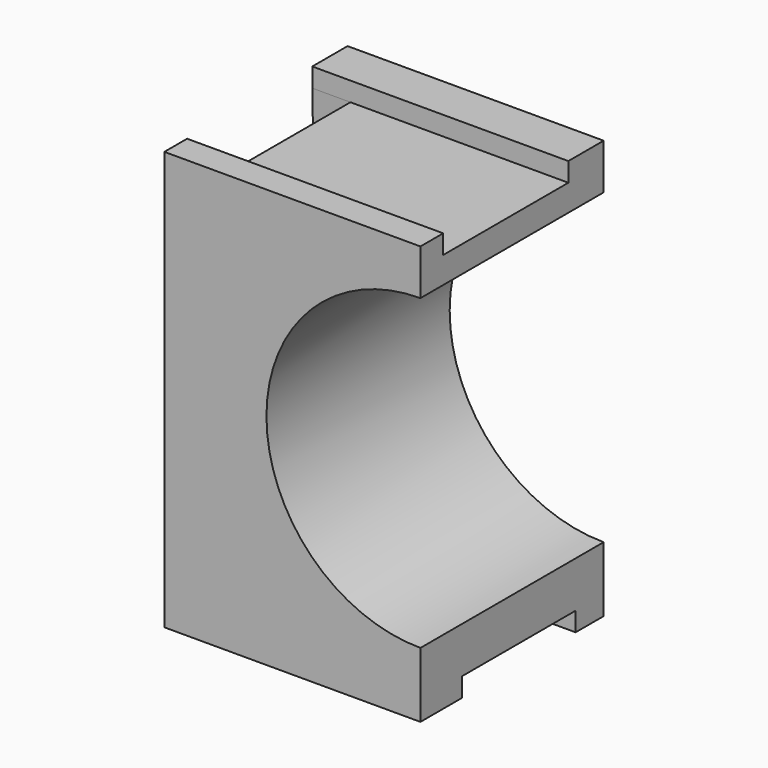
from build123d import *

# Parameters (mm, degrees)
F0_W     = 67.0811040951
F0_H     = 109.6547991037
F1_DEPTH = 60
F2_R     = 40.3328803273
F3_DEPTH = 60
F4_W     = 67.0811040951
F4_H     = 40.9807842225
F5_DEPTH = 5
F7_DEPTH = 5
F9_DEPTH = 10


with BuildPart() as f1:
    # F0 (on Front) → F1 (new body)
    with BuildSketch(Plane.XZ):
        with Locations((-0.2257995927, -4.8074126244)):
            Rectangle(F0_W, F0_H)
    extrude(amount=F1_DEPTH)

    # F2 (on face) → F3 (cut)
    with BuildSketch(Plane.XZ.offset(60)):
        with Locations((33.3147524549, -2.237562323)):
            Circle(F2_R)
    extrude(amount=-F3_DEPTH, mode=Mode.SUBTRACT)

    # F4 (on face) → F5 (cut)
    with BuildSketch(Plane.XY.offset(50.0199869275)):
        with Locations((-0.2257995927, -32.0525960997)):
            Rectangle(F4_W, F4_H)
    extrude(amount=-F5_DEPTH, mode=Mode.SUBTRACT)

    # F6 (on face) → F7 (cut)
    with BuildSketch(Plane(origin=(0, 0, -59.6348121762), x_dir=(1, 0, 0), z_dir=(0, 0, -1))):
        Polygon((-33.7663516402, 49.7098267078), (-33.7663516402, 9.1774007306), (33.3147524549, 9.1774007306), (33.3147524549, 46.3831014931), align=None)
    extrude(amount=-F7_DEPTH, mode=Mode.SUBTRACT)

    # F8 (on face) → F9 (cut)
    with BuildSketch(Plane(origin=(-33.7663516402, 0, 0), x_dir=(0, -1, 0), z_dir=(-1, 0, 0))):
        Polygon((52.5429882109, 45.0199869275), (11.5622039884, 45.0199869275), (9.1774007306, -54.6348121762), (49.7098267078, -54.6348121762), align=None)
    extrude(amount=-F9_DEPTH, mode=Mode.SUBTRACT)


solid = f1.part
